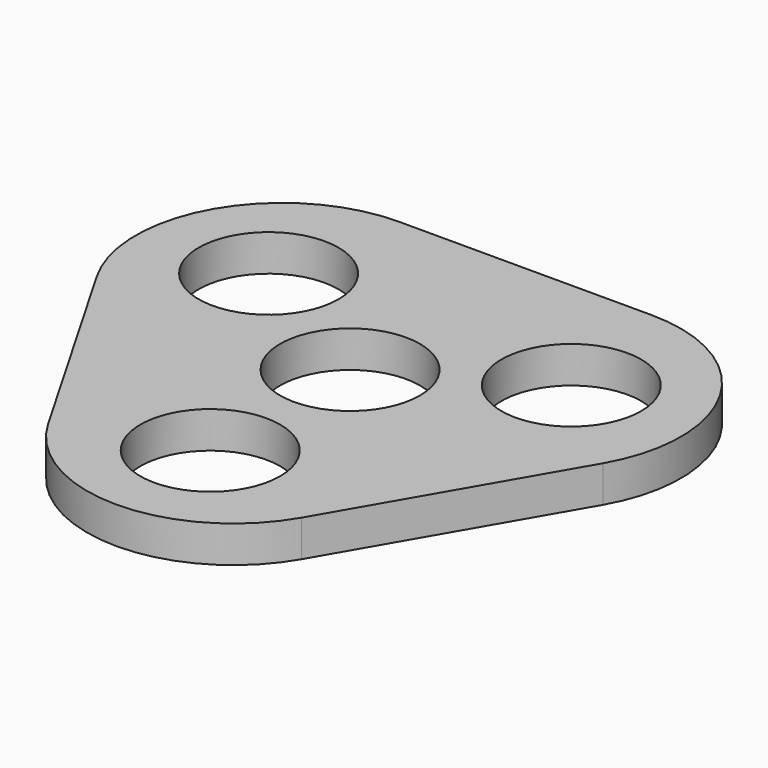
from build123d import *

# Parameters (mm, degrees)
F0_R     = 12.1285
F1_DEPTH = 6.35
F2_R     = 25.4
F3_R     = 25.4
F4_R     = 25.4


with BuildPart() as f1:
    # F0 (on Top) → F1 (new body)
    with BuildSketch(Plane.XY):
        Polygon((0, -76.487995), (65.884729, 37.627703), (-65.884729, 37.627703), align=None)
        with Locations((0, -30.727365)):
            Circle(F0_R, mode=Mode.SUBTRACT)
        with Locations((0, -0.410863)):
            Circle(F0_R, mode=Mode.SUBTRACT)
        with Locations((-26.254852, 14.747383)):
            Circle(F0_R, mode=Mode.SUBTRACT)
        with Locations((26.254857, 14.747391)):
            Circle(F0_R, mode=Mode.SUBTRACT)
    extrude(amount=F1_DEPTH)

    # F2
    f2_edges = [f1.edges().sort_by_distance(p)[0] for p in [
        (-65.884729, 37.627703, 3.175),
    ]]
    fillet(f2_edges, radius=F2_R)

    # F3
    f3_edges = [f1.edges().sort_by_distance(p)[0] for p in [
        (65.884729, 37.627703, 3.175),
    ]]
    fillet(f3_edges, radius=F3_R)

    # F4
    f4_edges = [f1.edges().sort_by_distance(p)[0] for p in [
        (0, -76.487995, 3.175),
    ]]
    fillet(f4_edges, radius=F4_R)


solid = f1.part
